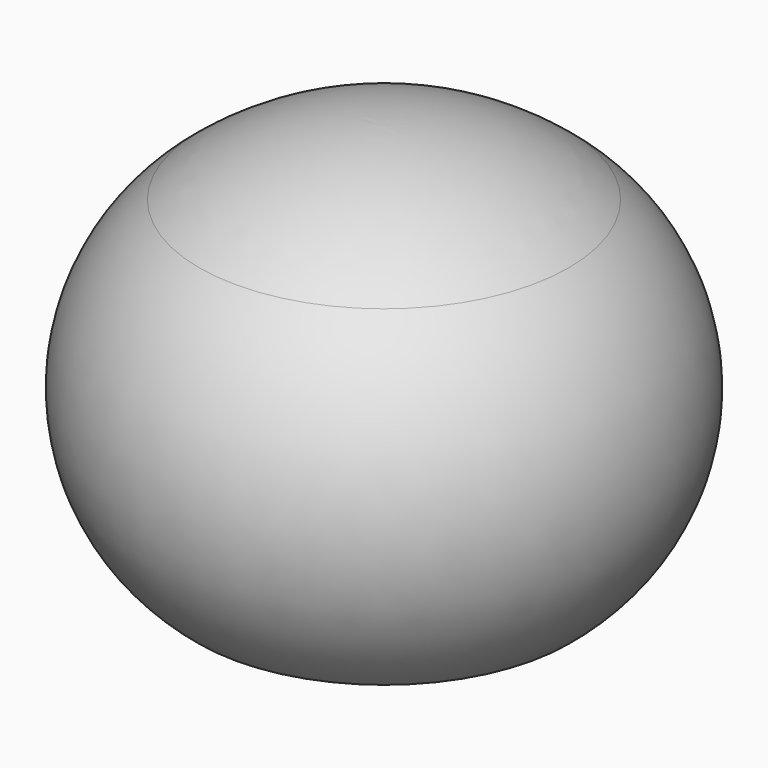
from build123d import *

# Parameters (mm, degrees)
F2_R = 1.2
F3_R = 1.5


with BuildPart() as f1:
    # F0 (on Front) → F1 (revolve)
    with BuildSketch(Plane.XZ):
        with BuildLine():
            ThreePointArc((-3.15, 22.194026), (-3.904349, 22.027506), (-4.65, 21.825579))
            Line((-4.65, 21.825579), (-4.65, 17.694026))
            Line((-4.65, 17.694026), (-3.15, 17.694026))
            Line((-3.15, 17.694026), (-3.15, 22.194026))
        make_face()
        with BuildLine():
            ThreePointArc((-10.253889, 18.889998), (-7.595122, 20.631109), (-4.65, 21.825579))
            ThreePointArc((-4.65, 21.825579), (-3.904349, 22.027506), (-3.15, 22.194026))
            ThreePointArc((-3.15, 22.194026), (-1.582413, 22.423327), (0, 22.5))
            Line((0, 22.5), (0, 24))
            ThreePointArc((0, 24), (-5.933525, 22.986019), (-11.1936, 20.059162))
            ThreePointArc((-11.1936, 20.059162), (-16, 10.029581), (-11.1936, 0))
            Line((-11.1936, 0), (-8.48312, 0))
            ThreePointArc((-8.48312, 0), (-14.45038, 8.968619), (-10.253889, 18.889998))
        make_face()
    revolve(axis=Axis((0, 0, 23.25), (0, 0, 1)))

    # F2
    f2_edges = [f1.edges().sort_by_distance(p)[0] for p in [
        (3.15, 0, 17.694026),
    ]]
    fillet(f2_edges, radius=F2_R)

    # F3
    f3_edges = [f1.edges().sort_by_distance(p)[0] for p in [
        (4.65, 0, 21.825579),
    ]]
    fillet(f3_edges, radius=F3_R)


solid = f1.part
